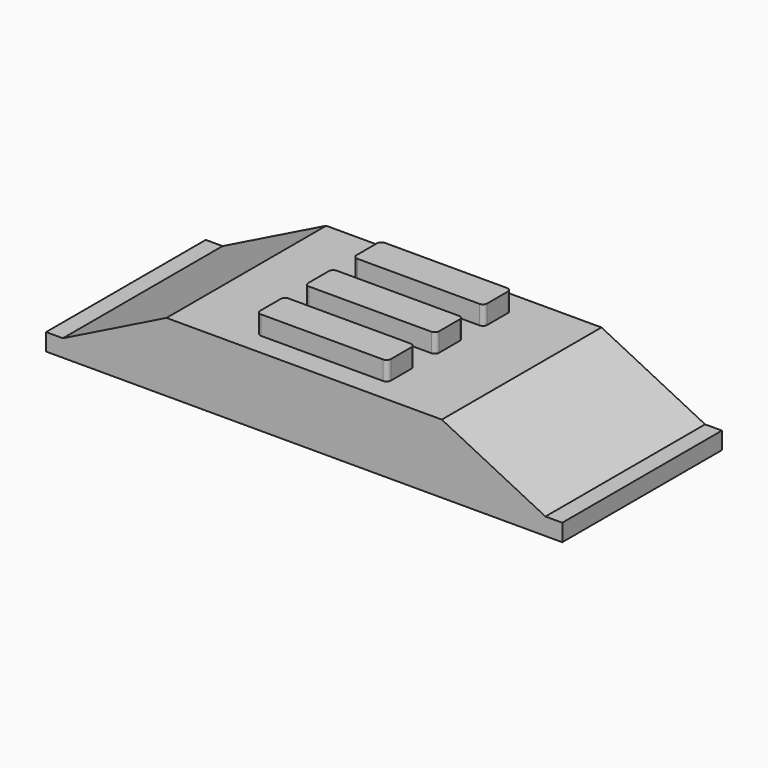
from build123d import *

# Parameters (mm, degrees)
F0_W     = 60
F0_H     = 23.2
F1_DEPTH = 2
F3_DEPTH = 23.2
F4_W     = 15.2
F4_H     = 4
F5_DEPTH = 2.2
F6_R     = 0.5


with BuildPart() as f1:
    # F0 (on Top) → F1 (new body)
    with BuildSketch(Plane.XY):
        with Locations((30, 11.6)):
            Rectangle(F0_W, F0_H)
    extrude(amount=F1_DEPTH)

    # F2 (on face) → F3 (join, through all)
    with BuildSketch(Plane(origin=(0, 23.2, 0), x_dir=(-1, 0, 0), z_dir=(0, 1, 0))):
        Polygon((-1.952949, 2), (-14, 8), (-46, 8), (-58.047051, 2), align=None)
    extrude(amount=-F3_DEPTH)

    # F4 (on face) → F5 (join)
    with BuildSketch(Plane.XY.offset(8)):
        with Locations((30, 18.6)):
            Rectangle(F4_W, F4_H)
        Polygon((22.4, 13.6), (22.4, 11.6), (22.4, 9.6), (37.6, 9.6), (37.6, 11.6), (37.6, 13.6), align=None)
        with Locations((30, 4.6)):
            Rectangle(F4_W, F4_H)
    extrude(amount=F5_DEPTH)

    # F6
    f6_edges = [f1.edges().sort_by_distance(p)[0] for p in [
        (22.4, 16.6, 9.1),
        (22.4, 9.6, 9.1),
        (22.4, 2.6, 9.1),
        (37.6, 2.6, 9.1),
        (37.6, 9.6, 9.1),
        (37.6, 16.6, 9.1),
        (22.4, 6.6, 9.1),
        (37.6, 6.6, 9.1),
        (37.6, 13.6, 9.1),
        (22.4, 13.6, 9.1),
        (22.4, 20.6, 9.1),
        (37.6, 20.6, 9.1),
    ]]
    fillet(f6_edges, radius=F6_R)


solid = f1.part
